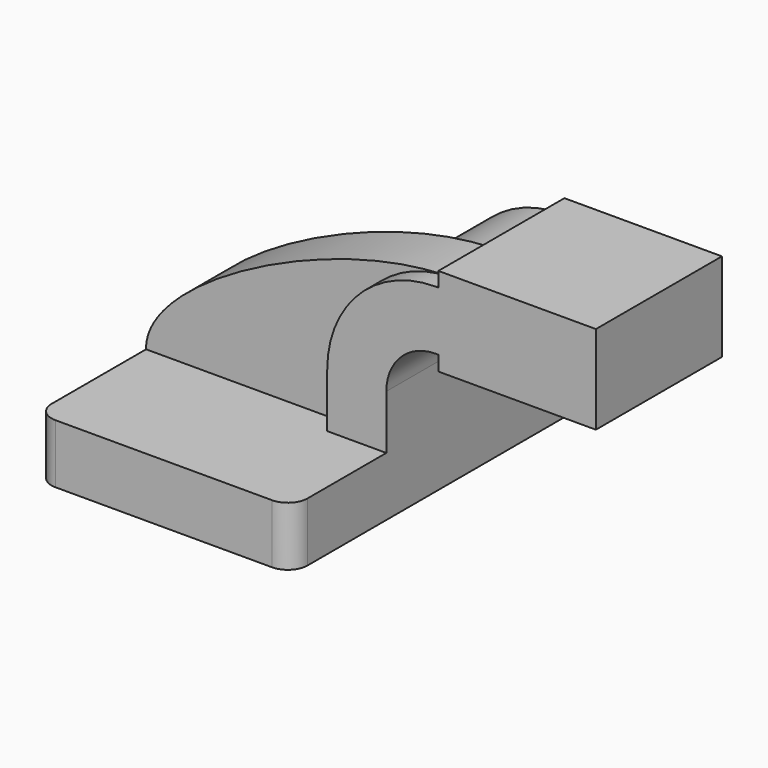
from build123d import *

# Parameters (mm, degrees)
F1_DEPTH = 63.5
F0_W     = 27.6548634248
F0_H     = 19.05
F0_H_2   = 4.7498
F0_H_3   = 4.7752
F2_DEPTH = 25.4
F3_DEPTH = 19.05
F4_R     = 6.35
F5_R     = 6.35


with BuildPart() as f1:
    # F0 (on Front) → F1 (new body, symmetric)
    with BuildSketch(Plane.XZ):
        Polygon((-41.275, -9.525), (41.275, -9.525), (41.275, 9.525), (22.225, 9.525), (-41.275, 9.525), align=None)
    extrude(amount=F1_DEPTH, both=True)

    # F0 (on Front) → F2 (join, symmetric)
    with BuildSketch(Plane.XZ):
        with BuildLine():
            Line((22.225, 9.525), (41.275, 9.525))
            Line((41.275, 9.525), (41.275, 27.0002))
            ThreePointArc((41.275, 27.0002), (45.9246798487, 38.2255201513), (57.15, 42.8752))
            Line((57.15, 42.8752), (58.0701365752, 42.8752))
            Line((58.0701365752, 42.8752), (58.0701365752, 61.9252))
            Line((58.0701365752, 61.9252), (57.15, 61.9252))
            ThreePointArc((57.15, 61.9252), (32.4542956671, 51.6959043329), (22.225, 27.0002))
            Line((22.225, 27.0002), (22.225, 9.525))
        make_face()
        with Locations((71.8975682876, 52.4002)):
            Rectangle(F0_W, F0_H)
        Polygon((85.725, 66.675), (85.725, 61.9252), (85.725, 42.8752), (85.725, 38.1), (108.8701365752, 38.1), (108.8701365752, 66.675), align=None)
        with Locations((71.8975682876, 64.3001)):
            Rectangle(F0_W, F0_H_2)
        with Locations((71.8975682876, 40.4876)):
            Rectangle(F0_W, F0_H_3)
    extrude(amount=F2_DEPTH, both=True)

    # F0 (on Front) → F3 (join)
    with BuildSketch(Plane.XZ):
        with BuildLine():
            add(Edge.make_bspline(
                [(-41.275, 9.525), (-41.7954027653, 31.1398338526), (19.2923080176, 62.1306672692), (57.15, 61.9252)],
                knots=[0, 0, 0, 0, 111.5045361635, 111.5045361635, 111.5045361635, 111.5045361635], degree=3))
            Line((-41.275, 9.525), (22.225, 9.525))
            Line((22.225, 9.525), (22.225, 27.0002))
            ThreePointArc((22.225, 27.0002), (32.4542956671, 51.6959043329), (57.15, 61.9252))
        make_face()
    extrude(amount=F3_DEPTH)

    # F4
    f4_edges = [f1.edges().sort_by_distance(p)[0] for p in [
        (41.275, -63.5, 0),
        (-41.275, -63.5, 0),
    ]]
    fillet(f4_edges, radius=F4_R)

    # F5
    f5_edges = [f1.edges().sort_by_distance(p)[0] for p in [
        (41.275, 63.5, 0),
        (-41.275, 63.5, 0),
    ]]
    fillet(f5_edges, radius=F5_R)


solid = f1.part
